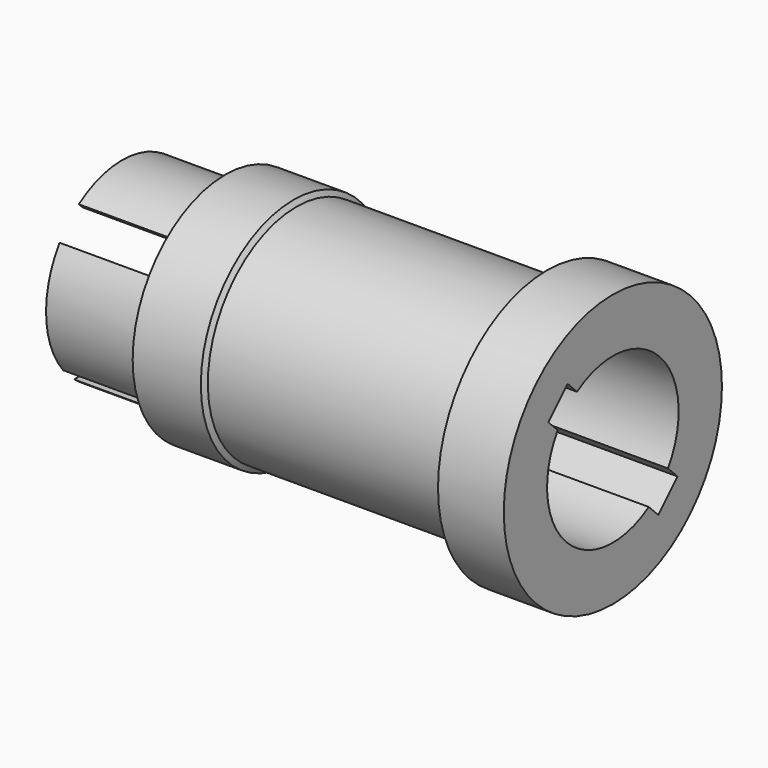
from build123d import *

# Parameters (mm, degrees)
F3_W     = 68.58
F3_H     = 68.58
F4_DEPTH = 48.1161598
F7_DEPTH = 203.2


with BuildPart() as f1:
    # F0 (on Front) → F1 (revolve)
    with BuildSketch(Plane.XZ):
        Polygon((228.6, 38.29685), (228.6, 63.5), (197.9639424, 63.5), (191.0935472, 51.6001), (81.237328, 51.6001), (79.8661598, 53.975), (48.1161598, 53.975), (48.1161598, 44.2595), (48.1161598, 38.29685), align=None)
        Polygon((48.1161598, 34.29), (48.1161598, 38.29685), (48.1161598, 44.2595), (0, 44.2595), (0, 34.29), align=None)
    revolve(axis=Axis((114.3, 0, 0), (1, 0, 0)))

    # F3 (on offset) → F4 (cut, through all)
    with BuildSketch(Plane(origin=(0, 0, 0), x_dir=(0, -1, 0), z_dir=(-1, 0, 0))):
        Rectangle(F3_W, F3_H)
    extrude(amount=-F4_DEPTH, mode=Mode.SUBTRACT)

    # F6 (on offset) → F7 (cut, symmetric)
    with BuildSketch(Plane(origin=(48.1161598, 0, 0), x_dir=(0, -1, 0), z_dir=(-1, 0, 0))):
        Polygon((-5.607271922, 5.607271922), (0, 0), (31.9966525594, 31.9966525594), (26.3893806374, 37.6039244814), align=None)
        Polygon((5.607271922, -5.607271922), (0, 0), (-5.607271922, 5.607271922), (-37.6039244814, -26.3893806374), (-26.3893806374, -37.6039244814), align=None)
        Polygon((31.9966525594, 31.9966525594), (0, 0), (5.607271922, -5.607271922), (37.6039244814, 26.3893806374), align=None)
    extrude(amount=F7_DEPTH, both=True, mode=Mode.SUBTRACT)


solid = f1.part
